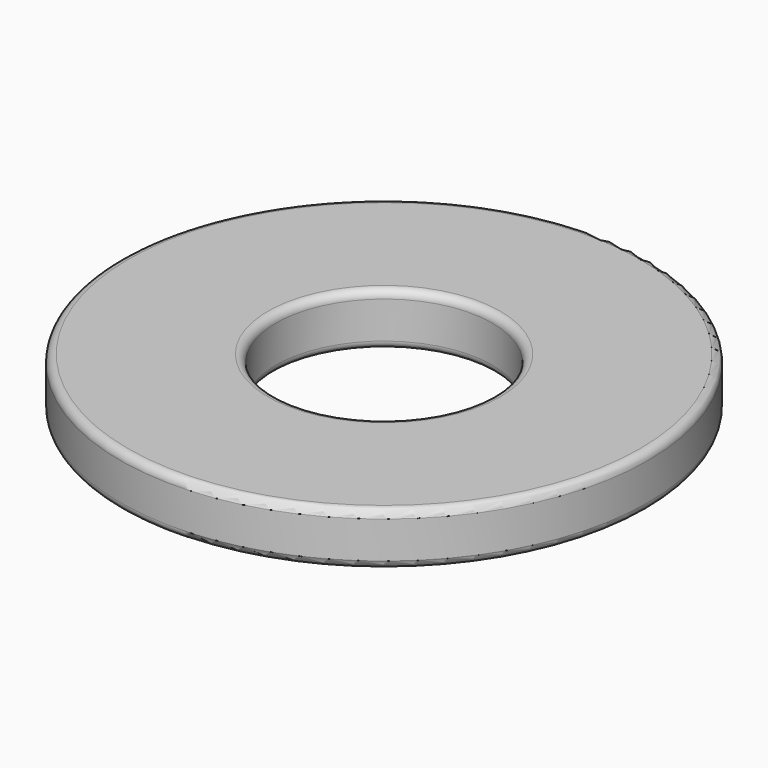
from build123d import *

# Parameters (mm, degrees)
SKETCH_R   = 5
SKETCH_R_2 = 2.05
PAD_DEPTH  = 1
FILLET_R   = 0.15


with BuildPart() as part:
    # Sketch → Pad (new body)
    with BuildSketch(Plane.XY):
        Circle(SKETCH_R)
        Circle(SKETCH_R_2, mode=Mode.SUBTRACT)
    extrude(amount=PAD_DEPTH)

    # Fillet
    fillet_edges = [part.edges().sort_by_distance(p)[0] for p in [
        (-5, 0, 1),
        (-5, 0, 0),
        (-2.05, 0, 1),
        (-2.05, 0, 0),
    ]]
    fillet(fillet_edges, radius=FILLET_R)


solid = part.part
